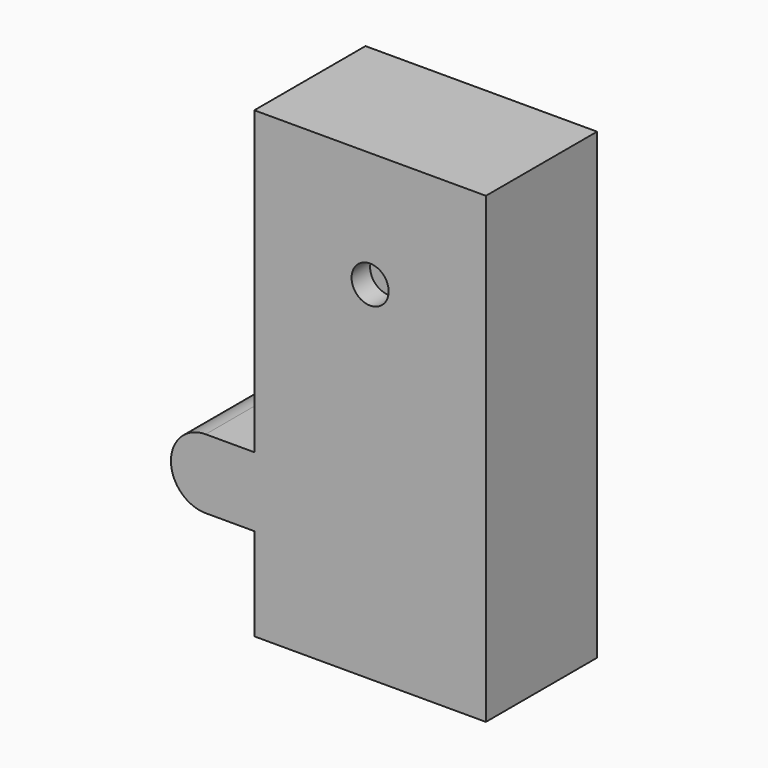
from build123d import *

# Parameters (mm, degrees)
F1_DEPTH = 15
F2_R     = 4
F3_DEPTH = 5


with BuildPart() as f1:
    # F0 (on Front) → F1 (new body, symmetric)
    with BuildSketch(Plane.XZ):
        with BuildLine():
            Line((0, -50), (50, -50))
            Line((50, -50), (50, 50))
            Line((50, 50), (0, 50))
            Line((0, 50), (0, -15))
            Line((0, -15), (-10.5, -15))
            ThreePointArc((-10.5, -15), (-18, -22.5), (-10.5, -30))
            Line((-10.5, -30), (0, -30))
            Line((0, -30), (0, -50))
        make_face()
    extrude(amount=F1_DEPTH, both=True)

    # F2 (on face) → F3 (cut)
    with BuildSketch(Plane.XZ.offset(15)):
        with Locations((25, 25)):
            Circle(F2_R)
    extrude(amount=-F3_DEPTH, mode=Mode.SUBTRACT)


solid = f1.part
